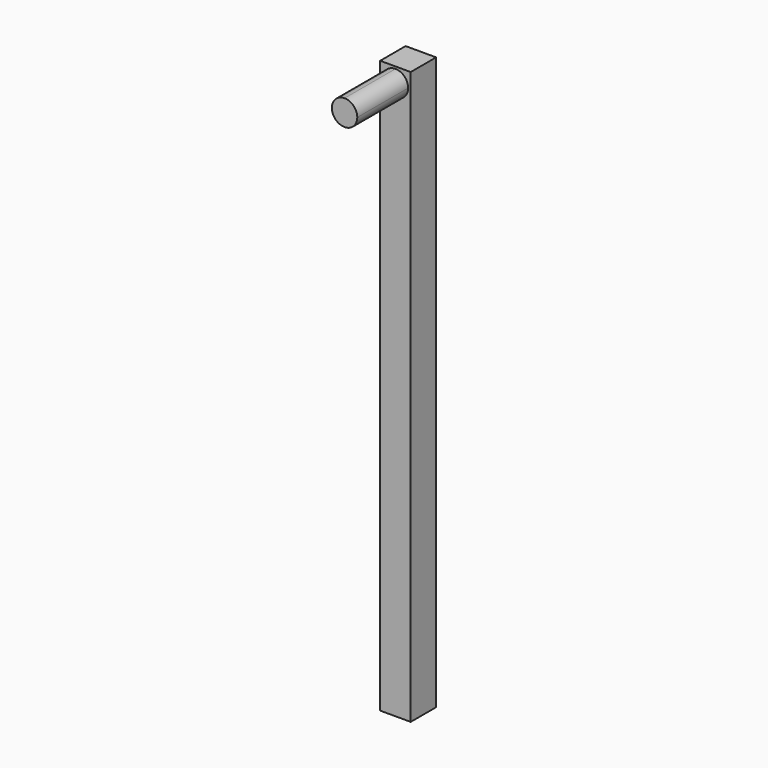
from build123d import *

# Parameters (mm, degrees)
F0_W     = 6.096
F0_H     = 114.3
F1_DEPTH = 3.175
F3_DEPTH = 12.7


with BuildPart() as f1:
    # F0 (on Front) → F1 (new body, symmetric)
    with BuildSketch(Plane.XZ):
        Rectangle(F0_W, F0_H)
    extrude(amount=F1_DEPTH, both=True)

    # F2 (on face) → F3 (join)
    with BuildSketch(Plane.XZ.offset(3.175)):
        with BuildLine():
            ThreePointArc((0, 56.7182), (-1.796051, 52.382149), (2.54, 54.1782))
            ThreePointArc((2.54, 54.1782), (1.796051, 55.974251), (0, 56.7182))
        make_face()
    extrude(amount=F3_DEPTH)


solid = f1.part
